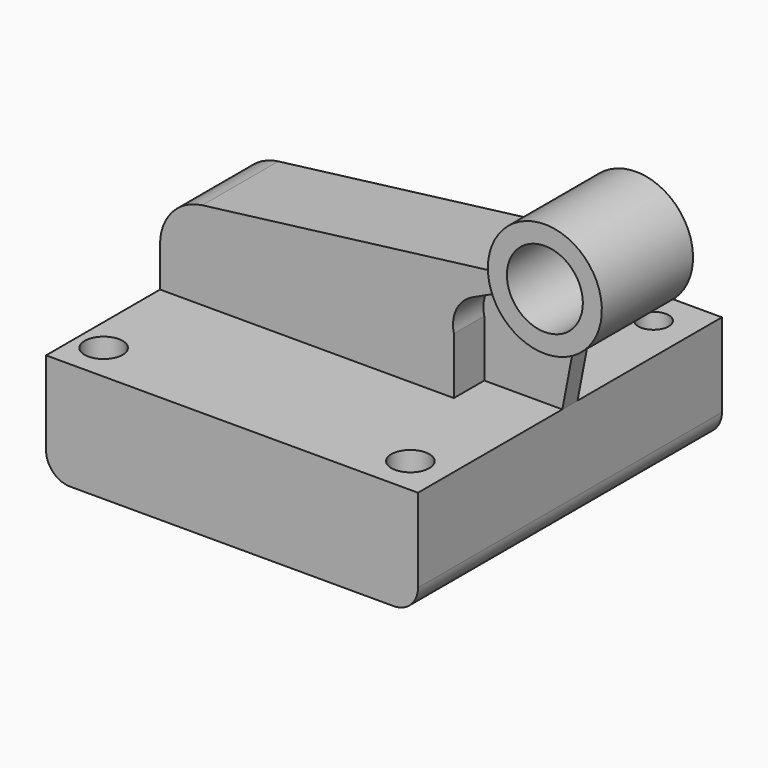
from build123d import *

# Parameters (mm, degrees)
F1_DEPTH = 50
F2_DEPTH = 12.5
F3_DEPTH = 2.5
F4_DEPTH = 15
F5_DEPTH = 15
F6_R     = 4
F6_R_2   = 5
F7_DEPTH = 28.3608646168


with BuildPart() as f1:
    # F0 (on Front) → F1 (new body, symmetric)
    with BuildSketch(Plane.XZ):
        with BuildLine():
            Line((30.8374185115, 14.368654698), (-46.5013422072, 14.368654698))
            Line((-46.5013422072, 14.368654698), (-46.5013422072, -7.6422099188))
            ThreePointArc((-46.5013422072, -7.6422099188), (-44.6414702677, -12.1323379793), (-40.1513422072, -13.9922099188))
            Line((-40.1513422072, -13.9922099188), (45.0415951966, -13.9922099188))
            ThreePointArc((45.0415951966, -13.9922099188), (49.5317232571, -12.1323379793), (51.3915951966, -7.6422099188))
            Line((51.3915951966, -7.6422099188), (51.3915951966, 14.368654698))
            Line((51.3915951966, 14.368654698), (30.8374185115, 14.368654698))
        make_face()
    extrude(amount=F1_DEPTH, both=True)

    # F0 (on Front) → F2 (join, symmetric)
    with BuildSketch(Plane.XZ):
        with BuildLine():
            Line((-46.5013422072, 24.9208568856), (-46.5013422072, 14.368654698))
            Line((-46.5013422072, 14.368654698), (30.8374185115, 14.368654698))
            Line((30.8374185115, 14.368654698), (30.8374185115, 29.3047134256))
            ThreePointArc((30.8374185115, 29.3047134256), (31.435925298, 35.0257883198), (35.4166887701, 39.1781888902))
            Line((35.4166887701, 39.1781888902), (43.1814734347, 42.7832674845))
            ThreePointArc((43.1814734347, 42.7832674845), (42.3700127292, 44.9572589365), (41.9035704488, 47.2303930965))
            Line((41.9035704488, 47.2303930965), (-35.384222781, 37.5218286374))
            ThreePointArc((-35.384222781, 37.5218286374), (-43.324802274, 33.3228630958), (-46.5013422072, 24.9208568856))
        make_face()
    extrude(amount=F2_DEPTH, both=True)

    # F0 (on Front) → F3 (join, symmetric)
    with BuildSketch(Plane.XZ):
        with BuildLine():
            Line((30.8374185115, 29.3047134256), (30.8374185115, 14.368654698))
            Line((30.8374185115, 14.368654698), (51.3915951966, 14.368654698))
            Line((51.3915951966, 14.368654698), (55.2041724073, 34.1836406995))
            ThreePointArc((55.2041724073, 34.1836406995), (48.0599839593, 36.8996898007), (43.1814734347, 42.7832674845))
            Line((43.1814734347, 42.7832674845), (35.4166887701, 39.1781888902))
            ThreePointArc((35.4166887701, 39.1781888902), (31.435925298, 35.0257883198), (30.8374185115, 29.3047134256))
        make_face()
    extrude(amount=F3_DEPTH, both=True)

    # F0 (on Front) → F4 (join, symmetric)
    with BuildSketch(Plane.XZ):
        with BuildLine():
            Line((46.8645829495, 47.8535744248), (41.9035704488, 47.2303930965))
            ThreePointArc((41.9035704488, 47.2303930965), (42.3700127292, 44.9572589365), (43.1814734347, 42.7832674845))
            Line((43.1814734347, 42.7832674845), (47.7165182734, 44.8888240168))
            ThreePointArc((47.7165182734, 44.8888240168), (47.1755444697, 46.3381516515), (46.8645829495, 47.8535744248))
        make_face()
    extrude(amount=F4_DEPTH, both=True)

    # F0 (on Front) → F5 (join, symmetric)
    with BuildSketch(Plane.XZ):
        with BuildLine():
            ThreePointArc((43.1814734347, 42.7832674845), (48.0599839593, 36.8996898007), (55.2041724073, 34.1836406995))
            ThreePointArc((55.2041724073, 34.1836406995), (66.8181448931, 37.9478849573), (71.7866079509, 49.0999370813))
            ThreePointArc((71.7866079509, 49.0999370813), (55.8500083917, 64.0706679007), (41.9035704488, 47.2303930965))
            Line((41.9035704488, 47.2303930965), (46.8645829495, 47.8535744248))
            ThreePointArc((46.8645829495, 47.8535744248), (56.1622082448, 59.0804242942), (66.7866079509, 49.0999370813))
            ThreePointArc((66.7866079509, 49.0999370813), (58.9428898464, 39.3351816626), (47.7165182734, 44.8888240168))
            Line((47.7165182734, 44.8888240168), (43.1814734347, 42.7832674845))
        make_face()
    extrude(amount=F5_DEPTH, both=True)

    # F6 (on face) → F7 (cut, through all)
    with BuildSketch(Plane.XY.offset(14.368654698)):
        with Locations((-36.5013422072, 40)):
            Circle(F6_R)
        with Locations((41.3915951966, 40)):
            Circle(F6_R)
        with Locations((-39.3444672227, -40)):
            Circle(F6_R_2)
        with Locations((41.3915951966, -40)):
            Circle(F6_R_2)
    extrude(amount=-F7_DEPTH, mode=Mode.SUBTRACT)


solid = f1.part
